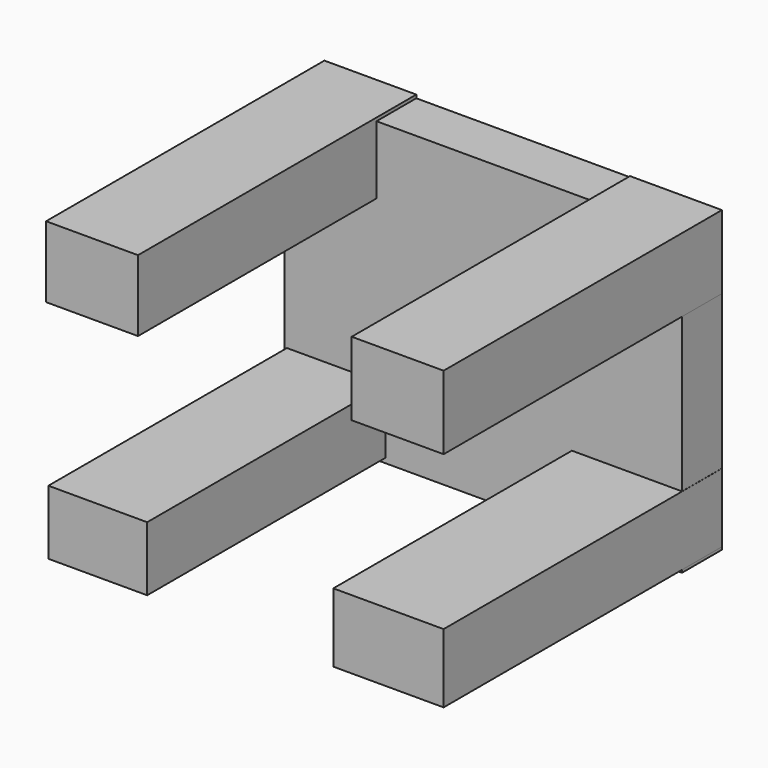
from build123d import *

# Parameters (mm, degrees)
F0_W     = 50.8
F0_H     = 38.1
F1_DEPTH = 6.35
F2_W     = 11.744588
F2_H     = 9.102055
F2_W_2   = 12.62543
F2_H_2   = 8.22121
F2_W_3   = 11.744585
F2_H_3   = 9.395669
F2_W_4   = 14.093501
F2_H_4   = 8.808441
F3_DEPTH = 44.45


with BuildPart() as f1:
    # F0 (on Front) → F1 (new body)
    with BuildSketch(Plane.XZ):
        with Locations((4.093383, 3.432296)):
            Rectangle(F0_W, F0_H)
    extrude(amount=F1_DEPTH)

    # F2 (on Front) → F3 (join)
    with BuildSketch(Plane.XZ):
        with Locations((-15.414771, 18.350917)):
            Rectangle(F2_W, F2_H)
        with Locations((-14.680734, -10.863743)):
            Rectangle(F2_W_2, F2_H_2)
        with Locations((23.635981, 17.910495)):
            Rectangle(F2_W_3, F2_H_3)
        with Locations((22.461523, -10.863743)):
            Rectangle(F2_W_4, F2_H_4)
    extrude(amount=F3_DEPTH)


solid = f1.part
